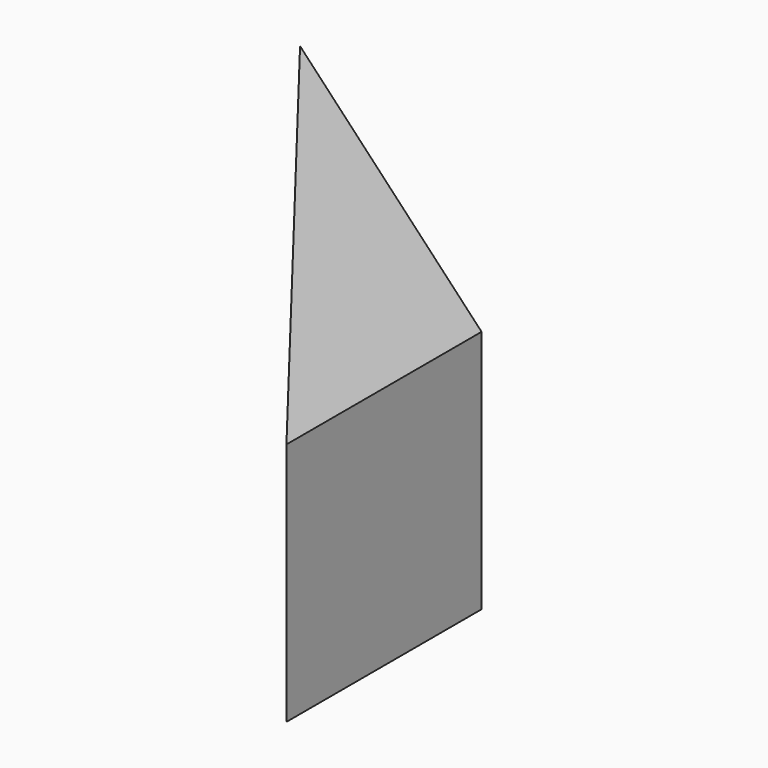
from build123d import *

# Parameters (mm, degrees)
F1_DEPTH = 25


with BuildPart() as f1:
    # F0 (on Top) → F1 (new body)
    with BuildSketch(Plane.XY):
        Polygon((-7.712255, 11.823404), (-33.041961, 29.554198), (-7.712255, -3.154161), align=None)
        Polygon((-7.712255, 11.823404), (-7.712255, -3.154161), (9.178322, -24.965035), (9.178322, 0), align=None)
    extrude(amount=F1_DEPTH)


solid = f1.part
